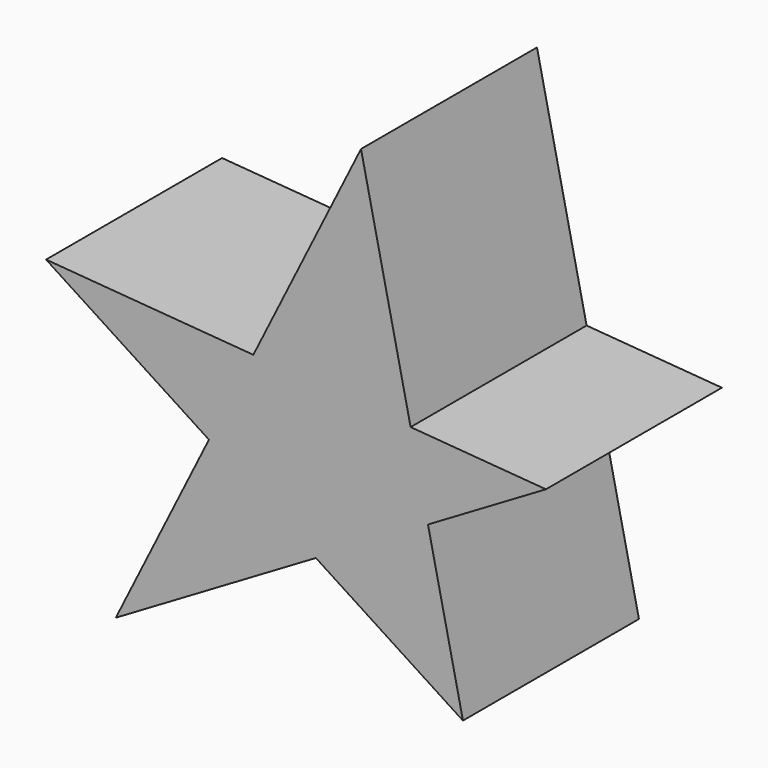
from build123d import *

# Parameters (mm, degrees)
F1_DEPTH = 50.8


with BuildPart() as f1:
    # F0 (on Front) → F1 (new body)
    with BuildSketch(Plane.XZ):
        Polygon((5.1182060042, 2.4796888762), (-6.3353870064, 55.3012229502), (-31.2044339176, 5.3616559169), align=None)
        Polygon((5.1182060042, 2.4796888762), (-31.2044339176, 5.3616559169), (-41.4573033166, -15.2271451119), (-16.7569355206, -31.2433516756), (9.1295970428, -16.0199931215), align=None)
        Polygon((-41.4573033166, -15.2271451119), (-31.2044339176, 5.3616559169), (-79.0661498904, 9.1591741657), align=None)
        Polygon((-16.7569355206, -31.2433516756), (-41.4573033166, -15.2271451119), (-62.9654377699, -58.4176592529), align=None)
        Polygon((17.2057338059, -53.2654175768), (9.1295970428, -16.0199931215), (-16.7569355206, -31.2433516756), align=None)
        Polygon((36.3707654178, 0), (5.1182060042, 2.4796888762), (9.1295970428, -16.0199931215), align=None)
    extrude(amount=F1_DEPTH)


solid = f1.part
